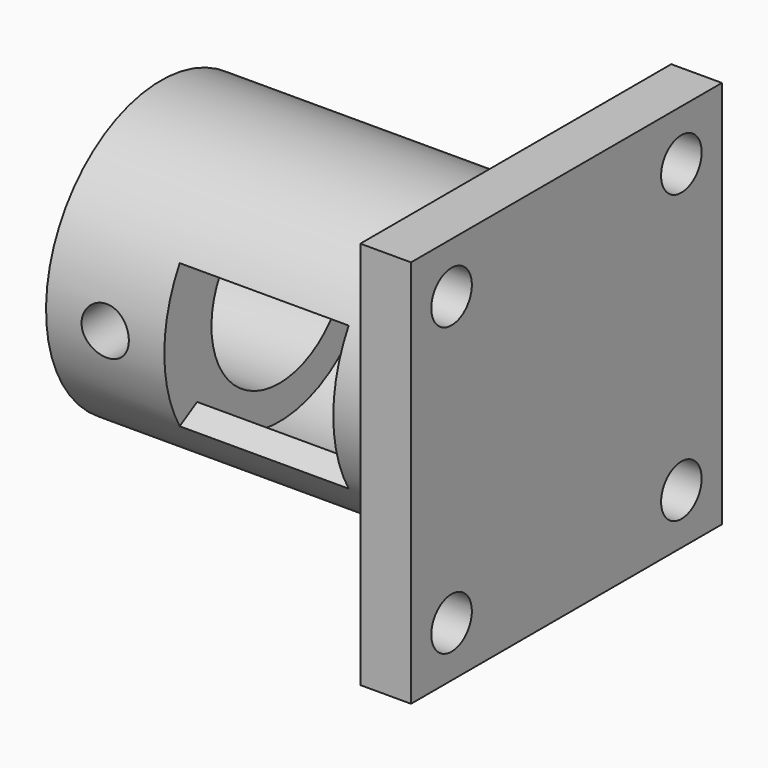
from build123d import *

# Parameters (mm, degrees)
SKETCH012_R             = 8.5
SKETCH012_R_2           = 5.0125
PAD009_DEPTH            = 21
SKETCH013_W             = 2
SKETCH013_H             = 10
SKETCH014_W             = 1.4875
SKETCH014_H             = 10
GROOVE002_ANGLE         = -60
SKETCH015_R             = 1.4
POCKET002_DEPTH         = 8.501
POCKET002_DEPTH_BACK    = 8.501
SKETCH016_W             = 23
SKETCH016_H             = 23
SKETCH016_R             = 1.5
PAD010_DEPTH            = 3
BODY006_PLACEMENT_ANGLE = 90


with BuildPart() as part:
    # Sketch012 → Pad009 (new body)
    with BuildSketch(Plane.XY):
        Circle(SKETCH012_R)
        Circle(SKETCH012_R_2, mode=Mode.SUBTRACT)
    extrude(amount=PAD009_DEPTH)

    # Sketch013 → Groove001 (revolve, cut)
    with BuildSketch(Plane.YZ):
        with Locations((-6.0125, 12)):
            Rectangle(SKETCH013_W, SKETCH013_H)
        with Locations((6.0125, 12)):
            Rectangle(SKETCH013_W, SKETCH013_H)
    revolve(axis=Axis((0, 0, 0), (0, 0, 1)), mode=Mode.SUBTRACT)

    # Sketch014 → Groove002 (revolve, symmetric, cut)
    with BuildSketch(Plane.YZ) as groove002_sk:
        with Locations((-7.75625, 12)):
            Rectangle(SKETCH014_W, SKETCH014_H)
        with Locations((7.75625, 12)):
            Rectangle(SKETCH014_W, SKETCH014_H)
    revolve(axis=Axis((0, 0, 0), (0, 0, 1)), revolution_arc=GROOVE002_ANGLE / 2, mode=Mode.SUBTRACT)
    revolve(groove002_sk.sketch, axis=Axis((0, 0, 0), (0, 0, -1)), revolution_arc=GROOVE002_ANGLE / 2, mode=Mode.SUBTRACT)

    # Sketch015 → Pocket002 (cut, two sides)
    with BuildSketch(Plane.XZ) as pocket002_sk:
        with Locations((0, 3.5)):
            Circle(SKETCH015_R)
    extrude(amount=-POCKET002_DEPTH, mode=Mode.SUBTRACT)
    extrude(pocket002_sk.sketch, amount=POCKET002_DEPTH_BACK, mode=Mode.SUBTRACT)

    # Sketch016 → Pad010 (join)
    with BuildSketch(Plane.XY.offset(21)):
        Rectangle(SKETCH016_W, SKETCH016_H)
        with Locations((-8.5, 8.5)):
            Circle(SKETCH016_R, mode=Mode.SUBTRACT)
        with Locations((-8.5, -8.5)):
            Circle(SKETCH016_R, mode=Mode.SUBTRACT)
        with Locations((8.5, 8.5)):
            Circle(SKETCH016_R, mode=Mode.SUBTRACT)
        with Locations((8.5, -8.5)):
            Circle(SKETCH016_R, mode=Mode.SUBTRACT)
    extrude(amount=PAD010_DEPTH)


with BuildPart() as part_1:
    # Body006 placement: moved
    add(part.part.moved(Location((-27, 13.5, 11.5))).rotate(Axis((-27, 13.5, 11.5), (0, 1, 0)), BODY006_PLACEMENT_ANGLE))


solid = part_1.part
